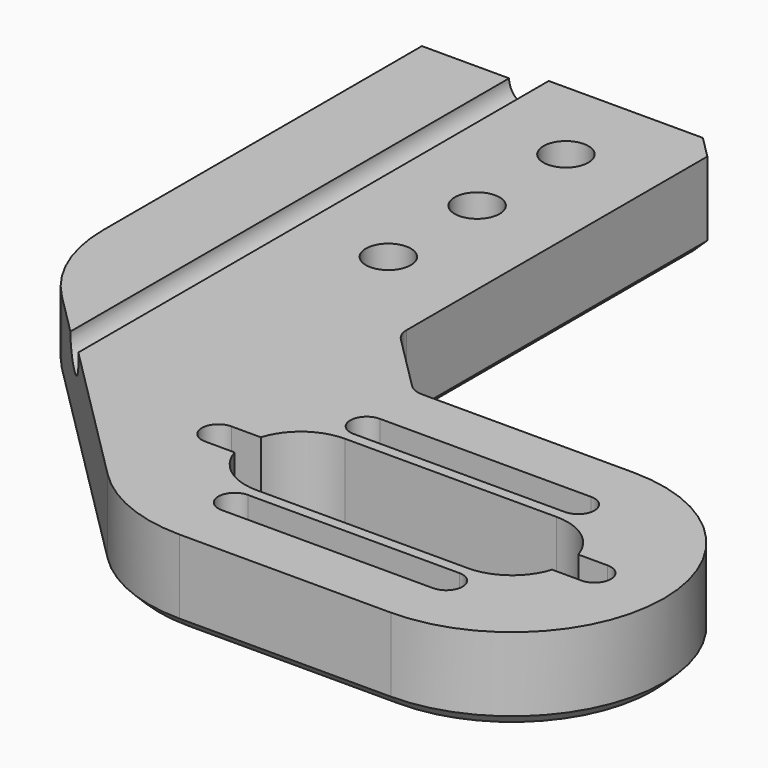
from build123d import *

# Parameters (mm, degrees)
SKETCH007_R     = 2.125
PAD002_DEPTH    = 8
POCKET005_DEPTH = 73.701
CHAMFER003_SIZE = 1


with BuildPart() as part:
    # Sketch007 → Pad002 (new body)
    with BuildSketch(Plane.XY):
        with BuildLine():
            ThreePointArc((0, -14.35), (14.35, 0), (0, 14.35))
            Line((0, 14.35), (-20, 14.35))
            ThreePointArc((-21.414214, 14.935786), (-20.765367, 14.502241), (-20, 14.35))
            Line((-21.414214, 14.935786), (-26.730188, 20.251761))
            ThreePointArc((-27.315974, 21.665974), (-27.163734, 20.900608), (-26.730188, 20.251761))
            Line((-27.315974, 21.665974), (-27.315974, 57.22868))
            Line((-27.315974, 57.22868), (-29.437295, 59.35))
            Line((-56.015974, 59.35), (-29.437295, 59.35))
            Line((-56.015974, 21.665974), (-56.015974, 59.35))
            ThreePointArc((-56.015974, 21.665974), (-54.923646, 16.174467), (-51.812957, 11.518992))
            Line((-51.812957, 11.518992), (-30.146982, -10.146982))
            ThreePointArc((-30.146982, -10.146982), (-25.491507, -13.257671), (-20, -14.35))
            Line((-20, -14.35), (0, -14.35))
        make_face()
        with Locations((-35.690974, 50.975)):
            Circle(SKETCH007_R, mode=Mode.SUBTRACT)
        with Locations((-35.690974, 40.475)):
            Circle(SKETCH007_R, mode=Mode.SUBTRACT)
        with Locations((-35.690974, 29.975)):
            Circle(SKETCH007_R, mode=Mode.SUBTRACT)
        with BuildLine():
            ThreePointArc((0, 6.25), (1.55, 7.8), (0, 9.35))
            Line((-20, 9.35), (0, 9.35))
            ThreePointArc((-20, 9.35), (-21.55, 7.8), (-20, 6.25))
            Line((-20, 6.25), (0, 6.25))
        make_face(mode=Mode.SUBTRACT)
        with BuildLine():
            ThreePointArc((-20, -6.25), (-21.55, -7.8), (-20, -9.35))
            Line((-20, -9.35), (0, -9.35))
            ThreePointArc((0, -9.35), (1.55, -7.8), (0, -6.25))
            Line((-20, -6.25), (0, -6.25))
        make_face(mode=Mode.SUBTRACT)
        with BuildLine():
            ThreePointArc((7.8, -1.55), (9.35, 0), (7.8, 1.55))
            Line((5.015974, 1.55), (7.8, 1.55))
            ThreePointArc((5.015974, 1.55), (3.116488, 4.224926), (0, 5.25))
            Line((-20, 5.25), (0, 5.25))
            ThreePointArc((-20, 5.25), (-23.116488, 4.224926), (-25.015974, 1.55))
            Line((-27.8, 1.55), (-25.015974, 1.55))
            ThreePointArc((-27.8, 1.55), (-29.35, 0), (-27.8, -1.55))
            Line((-27.8, -1.55), (-25.015974, -1.55))
            ThreePointArc((-25.015974, -1.55), (-23.116488, -4.224926), (-20, -5.25))
            Line((-20, -5.25), (0, -5.25))
            ThreePointArc((0, -5.25), (3.116488, -4.224926), (5.015974, -1.55))
            Line((7.8, -1.55), (5.015974, -1.55))
        make_face(mode=Mode.SUBTRACT)
    extrude(amount=PAD002_DEPTH)

    # Sketch008 (on Face12 of Pad002) → Pocket005 (cut, through all)
    with BuildSketch(Plane(origin=(0, 59.35, 0), x_dir=(-1, 0, 0), z_dir=(0, 1, 0))):
        with BuildLine():
            Line((56.015974, 7), (47.765974, 7))
            ThreePointArc((44.015974, 7), (45.890974, 5.125), (47.765974, 7))
            Line((44.015974, 8), (44.015974, 7))
            Line((44.015974, 8), (56.015974, 8))
            Line((56.015974, 8), (56.015974, 7))
        make_face()
    extrude(amount=-POCKET005_DEPTH, mode=Mode.SUBTRACT)

    # Chamfer003
    chamfer003_edges = [part.edges().sort_by_distance(p)[0] for p in [
        (-42.726635, 59.35, 0),
        (-56.015974, 40.507987, 0),
        (-54.923646, 16.174467, 0),
        (-40.97997, 0.686005, 0),
        (-25.491507, -13.257671, 0),
        (-10, -14.35, 0),
        (14.35, 0, 0),
        (-10, 14.35, 0),
        (-20.765367, 14.502241, 0),
        (-24.072201, 17.593774, 0),
        (-27.163734, 20.900608, 0),
        (-27.315974, 39.447327, 0),
        (-28.376635, 58.28934, 0),
    ]]
    chamfer(chamfer003_edges, length=CHAMFER003_SIZE)


with BuildPart() as part_1:
    # Body002 placement: moved
    add(part.part.moved(Location((11, 3.5, 0))))


solid = part_1.part
